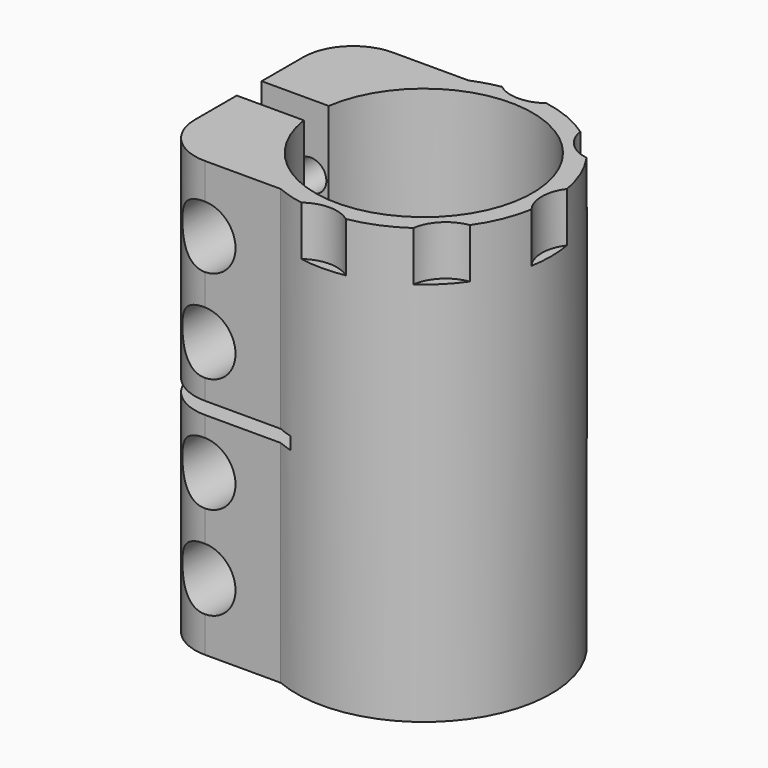
from build123d import *

# Parameters (mm, degrees)
F1_DEPTH       = 35
F3_D           = 5
F3_START       = 1.8205079
F3_CBORE_D     = 10
F3_CBORE_DEPTH = 8
F4_W           = 22.4
F4_H           = 2
F5_DEPTH       = 25
F6_R           = 6
F7_DEPTH       = 8


with BuildPart() as f1:
    # F0 (on Top) → F1 (new body, symmetric)
    with BuildSketch(Plane.XY):
        with BuildLine():
            Line((-20.1192642082, -18.9086026559), (-7.9192642082, -18.9086026559))
            ThreePointArc((-7.9192642082, -18.9086026559), (20.5, 0), (-7.9192642082, 18.9086026559))
            Line((-7.9192642082, 18.9086026559), (-20.1192642082, 18.9086026559))
            ThreePointArc((-20.1192642082, 18.9086026559), (-25.7761184577, 16.5654569054), (-28.1192642082, 10.9086026559))
            Line((-28.1192642082, 10.9086026559), (-28.1192642082, 2.5086026559))
            Line((-28.1192642082, 2.5086026559), (-17.3192642082, 2.5086026559))
            ThreePointArc((-17.3192642082, 2.5086026559), (17.5, 0), (-17.3192642082, -2.5086026559))
            Line((-17.3192642082, -2.5086026559), (-28.1192642082, -2.5086026559))
            Line((-28.1192642082, -2.5086026559), (-28.1192642082, -10.9086026559))
            ThreePointArc((-28.1192642082, -10.9086026559), (-25.7761184577, -16.5654569054), (-20.1192642082, -18.9086026559))
        make_face()
    extrude(amount=F1_DEPTH, both=True)

    # F3 (through all)
    # its depths count from where the whole tool has entered the part; down to there all is cleared
    with Locations(Plane.XZ.offset(18.9086026559).offset(-F3_START)):
        with Locations((-20.2, -24.25), (-20.2, -9.25), (-20.2, 9.25), (-20.2, 24.25)):
            CounterBoreHole(F3_D / 2, F3_CBORE_D / 2, F3_CBORE_DEPTH)

    # F4 (on Front) → F5 (cut, symmetric)
    with BuildSketch(Plane.XZ):
        with Locations((-16.9192642082, 0)):
            Rectangle(F4_W, F4_H)
    extrude(amount=F5_DEPTH, both=True, mode=Mode.SUBTRACT)

    # F6 (on face) → F7 (cut)
    with BuildSketch(Plane.XY.offset(35)):
        with Locations((0, -25)):
            Circle(F6_R)
        with Locations((17.6776695297, -17.6776695297)):
            Circle(F6_R)
        with Locations((25, 0)):
            Circle(F6_R)
        with Locations((17.6776695297, 17.6776695297)):
            Circle(F6_R)
        with Locations((0, 25)):
            Circle(F6_R)
    extrude(amount=-F7_DEPTH, mode=Mode.SUBTRACT)


solid = f1.part
